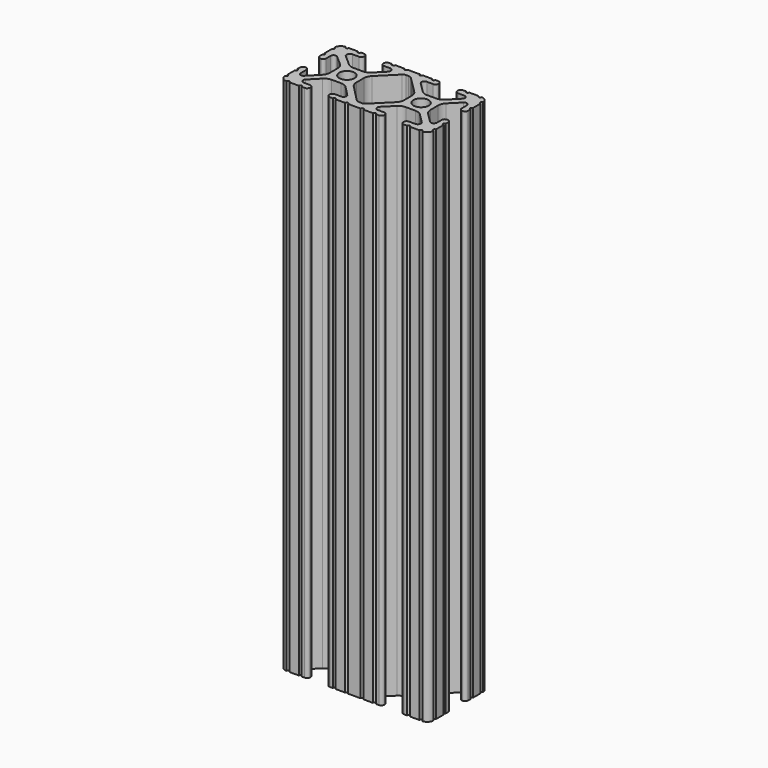
from build123d import *

# Parameters (mm, degrees)
SKETCH162_R   = 2.6035
EXTRUDE_DEPTH = 177.8


with BuildPart() as part:
    # Sketch162 → Extrude (new body)
    with BuildSketch(Plane.XY):
        with BuildLine():
            Line((8.41248, -10.4902), (6.283641, -10.4902))
            ThreePointArc((5.532577, -8.666072), (5.297292, -9.829633), (6.283641, -10.4902))
            Line((5.532577, -8.666072), (8.809985, -5.416263))
            ThreePointArc((11.045536, -4.4958), (9.836721, -4.73492), (8.809985, -5.416263))
            Line((11.045536, -4.4958), (14.354464, -4.4958))
            ThreePointArc((16.590015, -5.416263), (15.563279, -4.73492), (14.354464, -4.4958))
            Line((16.590015, -5.416263), (19.867423, -8.666072))
            ThreePointArc((19.116359, -10.4902), (20.102708, -9.829633), (19.867423, -8.666072))
            Line((19.116359, -10.4902), (16.98752, -10.4902))
            ThreePointArc((16.98752, -10.4902), (16.245751, -10.797451), (15.9385, -11.53922))
            Line((15.9385, -11.53922), (15.938501, -11.65105))
            ThreePointArc((15.938501, -11.65105), (16.245731, -12.39277), (16.98745, -12.7))
            Line((16.98745, -12.7), (18.017115, -12.7))
            ThreePointArc((19.033115, -12.7), (18.525115, -12.192), (18.017115, -12.7))
            Line((19.033115, -12.7), (22.2504, -12.7))
            ThreePointArc((23.2664, -12.699847), (22.758323, -12.192), (22.2504, -12.7))
            ThreePointArc((23.2664, -12.699847), (24.782523, -12.082523), (25.399847, -10.5664))
            ThreePointArc((25.4, -9.5504), (24.892, -10.058323), (25.399847, -10.5664))
            Line((25.4, -9.5504), (25.4, -6.333084))
            ThreePointArc((25.4, -5.317084), (24.892, -5.825084), (25.4, -6.333084))
            Line((25.4, -5.317084), (25.4, -4.23752))
            ThreePointArc((25.4, -4.23752), (25.107394, -3.531106), (24.40098, -3.2385))
            Line((24.40098, -3.2385), (24.239219, -3.2385))
            ThreePointArc((24.239219, -3.2385), (23.49745, -3.545751), (23.1902, -4.28752))
            Line((23.1902, -4.28752), (23.1902, -6.334741))
            ThreePointArc((21.434003, -7.066536), (22.556027, -7.286024), (23.1902, -6.334741))
            Line((21.434003, -7.066536), (18.147951, -3.808156))
            ThreePointArc((17.208502, -1.55362), (17.45276, -2.774838), (18.147951, -3.808156))
            Line((17.208502, -1.55362), (17.208502, 1.695179))
            ThreePointArc((18.140486, 3.94229), (17.450739, 2.911536), (17.208502, 1.695179))
            Line((18.140486, 3.94229), (21.43158, 7.227386))
            ThreePointArc((23.1902, 6.498002), (22.554449, 7.449941), (21.43158, 7.227386))
            Line((23.1902, 6.498002), (23.190199, 4.28752))
            ThreePointArc((23.190199, 4.28752), (23.49745, 3.545751), (24.23922, 3.2385))
            Line((24.23922, 3.2385), (24.350981, 3.2385))
            ThreePointArc((24.350981, 3.2385), (25.09275, 3.545751), (25.4, 4.28752))
            Line((25.4, 4.28752), (25.4, 5.317134))
            ThreePointArc((25.4, 6.333134), (24.892, 5.825134), (25.4, 5.317134))
            Line((25.4, 6.333134), (25.4, 9.5504))
            ThreePointArc((25.399847, 10.5664), (24.892, 10.058324), (25.4, 9.5504))
            ThreePointArc((25.399847, 10.5664), (24.782523, 12.082523), (23.2664, 12.699847))
            ThreePointArc((22.2504, 12.7), (22.758323, 12.192), (23.2664, 12.699847))
            Line((22.2504, 12.7), (19.03309, 12.7))
            ThreePointArc((18.01709, 12.7), (18.52509, 12.192), (19.03309, 12.7))
            Line((18.01709, 12.7), (16.98747, 12.7))
            ThreePointArc((16.98747, 12.7), (16.2457, 12.392749), (15.938449, 11.65098))
            Line((15.938449, 11.65098), (15.938449, 11.53922))
            ThreePointArc((15.938449, 11.53922), (16.2457, 10.797451), (16.987469, 10.4902))
            Line((16.987469, 10.4902), (19.116359, 10.4902))
            ThreePointArc((19.834124, 8.755125), (20.055198, 9.862578), (19.116359, 10.4902))
            Line((19.834124, 8.755125), (16.496607, 5.42369))
            ThreePointArc((14.253592, 4.4958), (15.467274, 4.736929), (16.496607, 5.42369))
            Line((14.253592, 4.4958), (11.146408, 4.4958))
            ThreePointArc((8.903392, 5.42369), (9.932726, 4.736929), (11.146408, 4.4958))
            Line((8.903392, 5.42369), (5.565875, 8.755125))
            ThreePointArc((6.283641, 10.4902), (5.344802, 9.862579), (5.565875, 8.755125))
            Line((6.283641, 10.4902), (8.412531, 10.4902))
            ThreePointArc((8.412531, 10.4902), (9.1543, 10.797451), (9.461551, 11.53922))
            Line((9.461551, 11.53922), (9.461551, 11.65098))
            ThreePointArc((9.461551, 11.65098), (9.1543, 12.392749), (8.412531, 12.7))
            Line((8.412531, 12.7), (7.382872, 12.7))
            ThreePointArc((6.366872, 12.7), (6.874872, 12.192), (7.382872, 12.7))
            Line((6.366872, 12.7), (3.149606, 12.7))
            ThreePointArc((2.133606, 12.7), (2.641606, 12.192), (3.149606, 12.7))
            Line((2.133606, 12.7), (-2.133606, 12.7))
            ThreePointArc((-3.149581, 12.7), (-2.641594, 12.192013), (-2.133606, 12.7))
            Line((-3.149581, 12.7), (-6.36691, 12.7))
            ThreePointArc((-7.38291, 12.7), (-6.87491, 12.192), (-6.36691, 12.7))
            Line((-7.38291, 12.7), (-8.412531, 12.7))
            ThreePointArc((-8.412531, 12.7), (-9.1543, 12.392749), (-9.461551, 11.65098))
            Line((-9.461551, 11.65098), (-9.461551, 11.53922))
            ThreePointArc((-9.461551, 11.53922), (-9.1543, 10.797451), (-8.412531, 10.4902))
            Line((-8.412531, 10.4902), (-6.289393, 10.4902))
            ThreePointArc((-5.480677, 8.535266), (-5.23159, 9.78305), (-6.289393, 10.4902))
            Line((-5.480677, 8.535266), (-8.597934, 5.42369))
            ThreePointArc((-10.840949, 4.4958), (-9.627267, 4.736929), (-8.597934, 5.42369))
            Line((-10.840949, 4.4958), (-14.102564, 4.4958))
            ThreePointArc((-16.187895, 5.276637), (-15.215928, 4.69741), (-14.102564, 4.4958))
            Line((-16.187895, 5.276637), (-19.868248, 8.482246))
            ThreePointArc((-19.116384, 10.4902), (-20.188436, 9.74688), (-19.868248, 8.482246))
            Line((-19.116384, 10.4902), (-16.987469, 10.4902))
            ThreePointArc((-16.987469, 10.4902), (-16.2457, 10.797451), (-15.938449, 11.53922))
            Line((-15.938449, 11.53922), (-15.938449, 11.65098))
            ThreePointArc((-15.938449, 11.65098), (-16.2457, 12.392749), (-16.987469, 12.7))
            Line((-16.987469, 12.7), (-18.017103, 12.7))
            ThreePointArc((-19.033103, 12.7), (-18.525103, 12.192), (-18.017103, 12.7))
            Line((-19.033103, 12.7), (-22.2504, 12.7))
            ThreePointArc((-23.2664, 12.699847), (-22.758323, 12.192), (-22.2504, 12.7))
            ThreePointArc((-23.2664, 12.699847), (-24.782523, 12.082523), (-25.399847, 10.5664))
            ThreePointArc((-25.4, 9.5504), (-24.892, 10.058323), (-25.399847, 10.5664))
            Line((-25.4, 9.5504), (-25.4, 6.333084))
            ThreePointArc((-25.4, 5.317084), (-24.892, 5.825084), (-25.4, 6.333084))
            Line((-25.4, 5.317084), (-25.4, 4.23752))
            ThreePointArc((-25.4, 4.23752), (-25.107394, 3.531106), (-24.40098, 3.2385))
            Line((-24.40098, 3.2385), (-24.18922, 3.2385))
            ThreePointArc((-24.18922, 3.2385), (-23.482806, 3.531106), (-23.1902, 4.23752))
            Line((-23.1902, 4.23752), (-23.1902, 6.155876))
            ThreePointArc((-21.583975, 6.886926), (-22.622327, 7.038259), (-23.1902, 6.155876))
            Line((-21.583975, 6.886926), (-18.298171, 4.024971))
            ThreePointArc((-17.208502, 1.630807), (-17.493731, 2.946045), (-18.298171, 4.024971))
            Line((-17.208502, 1.630807), (-17.208502, -1.630807))
            ThreePointArc((-18.109441, -3.846495), (-17.442348, -2.826734), (-17.208502, -1.630807))
            Line((-18.109441, -3.846495), (-21.526347, -7.35342))
            ThreePointArc((-23.1902, -6.676867), (-22.585896, -7.574939), (-21.526347, -7.35342))
            Line((-23.1902, -6.676867), (-23.1902, -4.23752))
            ThreePointArc((-23.1902, -4.23752), (-23.482806, -3.531106), (-24.18922, -3.2385))
            Line((-24.18922, -3.2385), (-24.400979, -3.2385))
            ThreePointArc((-24.400979, -3.2385), (-25.107394, -3.531106), (-25.4, -4.23752))
            Line((-25.4, -4.23752), (-25.4, -5.317084))
            ThreePointArc((-25.4, -6.333185), (-24.891949, -5.825134), (-25.4, -5.317084))
            Line((-25.4, -6.333185), (-25.4, -9.5504))
            ThreePointArc((-25.399847, -10.5664), (-24.892, -10.058323), (-25.4, -9.5504))
            ThreePointArc((-25.399847, -10.5664), (-24.782522, -12.082522), (-23.2664, -12.699847))
            ThreePointArc((-22.2504, -12.7), (-22.758323, -12.192), (-23.2664, -12.699847))
            Line((-22.2504, -12.7), (-19.033103, -12.7))
            ThreePointArc((-18.017103, -12.7), (-18.525103, -12.192), (-19.033103, -12.7))
            Line((-18.017103, -12.7), (-16.98745, -12.7))
            ThreePointArc((-16.98745, -12.7), (-16.24573, -12.39277), (-15.9385, -11.65105))
            Line((-15.9385, -11.65105), (-15.9385, -11.53922))
            ThreePointArc((-15.9385, -11.53922), (-16.245751, -10.797451), (-16.98752, -10.4902))
            Line((-16.98752, -10.4902), (-19.116384, -10.4902))
            ThreePointArc((-19.844087, -8.765172), (-20.052503, -9.869097), (-19.116384, -10.4902))
            Line((-19.844087, -8.765172), (-16.618993, -5.455112))
            ThreePointArc((-14.344933, -4.4958), (-15.578994, -4.745442), (-16.618993, -5.455112))
            Line((-14.344933, -4.4958), (-11.083318, -4.4958))
            ThreePointArc((-8.816955, -5.447239), (-9.854331, -4.743307), (-11.083318, -4.4958))
            Line((-8.816955, -5.447239), (-5.564154, -8.762653))
            ThreePointArc((-6.289393, -10.4902), (-5.352591, -9.867473), (-5.564154, -8.762653))
            Line((-6.289393, -10.4902), (-8.41248, -10.4902))
            ThreePointArc((-8.41248, -10.4902), (-9.154249, -10.797451), (-9.4615, -11.53922))
            Line((-9.4615, -11.53922), (-9.4615, -11.65105))
            ThreePointArc((-9.4615, -11.65105), (-9.154269, -12.39277), (-8.41255, -12.7))
            Line((-8.41255, -12.7), (-7.382885, -12.7))
            ThreePointArc((-6.366885, -12.7), (-6.874885, -12.192), (-7.382885, -12.7))
            Line((-6.366885, -12.7), (-3.149581, -12.7))
            ThreePointArc((-2.133581, -12.7), (-2.641581, -12.192), (-3.149581, -12.7))
            Line((-2.133581, -12.7), (2.133581, -12.7))
            ThreePointArc((3.149581, -12.7), (2.641581, -12.192), (2.133581, -12.7))
            Line((3.149581, -12.7), (6.366897, -12.7))
            ThreePointArc((7.382897, -12.7), (6.874897, -12.192), (6.366897, -12.7))
            Line((7.382897, -12.7), (8.41255, -12.7))
            ThreePointArc((8.41255, -12.7), (9.15427, -12.392769), (9.4615, -11.65105))
            Line((9.4615, -11.65105), (9.461501, -11.53922))
            ThreePointArc((9.461501, -11.53922), (9.154249, -10.797451), (8.41248, -10.4902))
        make_face()
        with Locations((12.7, 0)):
            Circle(SKETCH162_R, mode=Mode.SUBTRACT)
        with Locations((-12.7, 0)):
            Circle(SKETCH162_R, mode=Mode.SUBTRACT)
        with BuildLine():
            Line((7.259514, 3.869413), (1.545749, 9.572767))
            ThreePointArc((1.545749, 9.572767), (1.035199, 9.9134), (0.433213, 10.033))
            Line((0.433213, 10.033), (-0.433213, 10.033))
            ThreePointArc((-0.433213, 10.033), (-1.0352, 9.9134), (-1.545749, 9.572767))
            Line((-1.545749, 9.572767), (-7.259514, 3.869413))
            ThreePointArc((-7.259514, 3.869413), (-7.949261, 2.83866), (-8.191498, 1.622303))
            Line((-8.191498, 1.622303), (-8.191498, -1.622303))
            ThreePointArc((-8.191498, -1.622303), (-7.955573, -2.823328), (-7.282861, -3.845864))
            Line((-7.282861, -3.845864), (-1.675572, -9.561086))
            ThreePointArc((-1.675572, -9.561086), (-1.161034, -9.910236), (-0.551457, -10.033))
            Line((-0.551457, -10.033), (0.3952, -10.033))
            ThreePointArc((0.3952, -10.033), (0.994773, -9.914396), (1.504033, -9.57645))
            Line((1.504033, -9.57645), (7.252049, -3.87684))
            ThreePointArc((7.252049, -3.87684), (7.94724, -2.843521), (8.191498, -1.622303))
            Line((8.191498, -1.622303), (8.191499, 1.622303))
            ThreePointArc((8.191499, 1.622303), (7.949262, 2.83866), (7.259514, 3.869413))
        make_face(mode=Mode.SUBTRACT)
    extrude(amount=EXTRUDE_DEPTH)


solid = part.part
